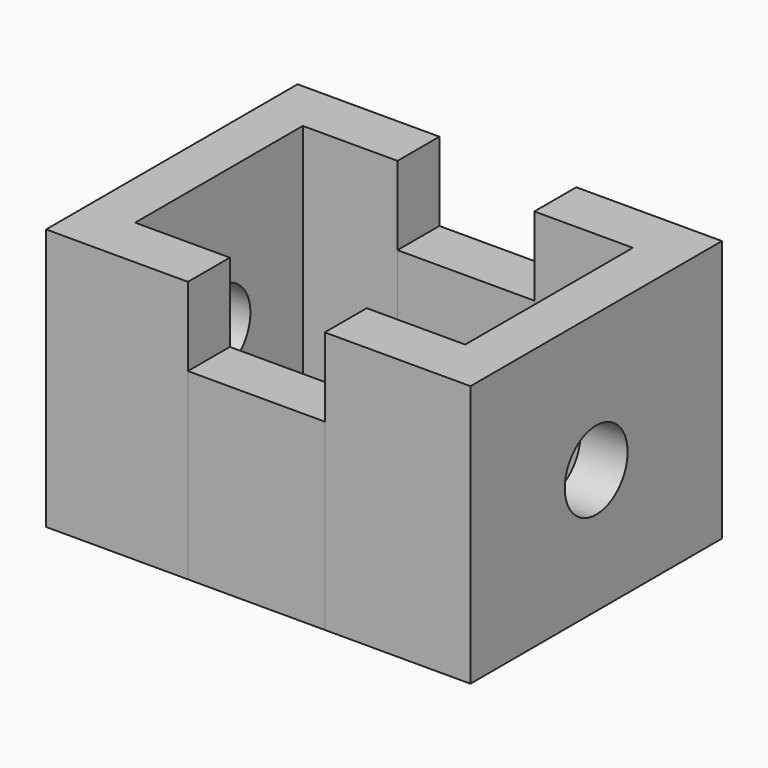
from build123d import *

# Parameters (mm, degrees)
F1_DEPTH = 50
F0_W     = 26.123452
F0_H     = 10
F2_DEPTH = 35
F4_D     = 15


with BuildPart() as f1:
    # F0 (on Top) → F1 (new body)
    with BuildSketch(Plane.XY):
        Polygon((-12.573326, 30), (-39.649198, 30), (-39.649198, -30), (-12.573326, -30), (-12.573326, -20), (-30.649105, -20), (-30.649105, 20), (-12.573326, 20), align=None)
        Polygon((41.351645, 30), (13.550126, 30), (13.550126, 20), (32.351551, 20), (32.351551, -20), (13.550126, -20), (13.550126, -30), (41.351645, -30), align=None)
    extrude(amount=F1_DEPTH)

    # F4 (through all)
    with Locations(Plane.YZ.offset(41.351645)):
        with Locations((0, 23.713434)):
            Hole(F4_D / 2)


with BuildPart() as f2:
    # F0 (on Top) → F2 (new body)
    with BuildSketch(Plane.XY):
        with Locations((0.4884, -25)):
            Rectangle(F0_W, F0_H)
        with Locations((0.4884, 25)):
            Rectangle(F0_W, F0_H)
    extrude(amount=F2_DEPTH)


solid = Compound([f1.part, f2.part])
